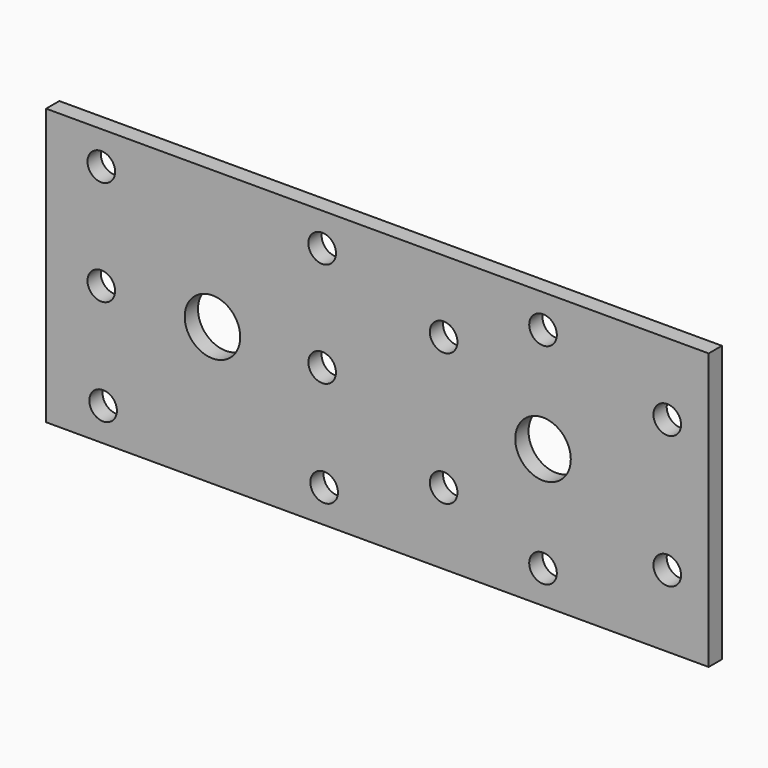
from build123d import *

# Parameters (mm, degrees)
F0_W     = 120
F0_H     = 50
F1_DEPTH = 3
F2_R     = 2.5
F2_R_2   = 5.0292
F3_DEPTH = 3.001


with BuildPart() as f1:
    # F0 (on Front) → F1 (new body)
    with BuildSketch(Plane.XZ):
        Rectangle(F0_W, F0_H)
    extrude(amount=F1_DEPTH)

    # F2 (on face) → F3 (cut, through all)
    with BuildSketch(Plane.XZ.offset(3)):
        with Locations((-50, 0)):
            Circle(F2_R)
        with Locations((-49.6740713716, -19.0056)):
            Circle(F2_R)
        with Locations((-29.8628, 0)):
            Circle(F2_R_2)
        with Locations((-10, 0)):
            Circle(F2_R)
        with Locations((-9.6392054111, -18.9992)):
            Circle(F2_R)
        with Locations((12, 12)):
            Circle(F2_R)
        with Locations((12, -12)):
            Circle(F2_R)
        with Locations((30, 0)):
            Circle(F2_R_2)
        with Locations((30, -18.9992)):
            Circle(F2_R)
        with Locations((52.5, 12)):
            Circle(F2_R)
        with Locations((52.5, -12)):
            Circle(F2_R)
        with BuildLine():
            ThreePointArc((-7.5, 19), (-10, 21.5), (-12.5, 19))
            Line((-12.5, 19), (-7.5, 19))
        make_face()
        with BuildLine():
            Line((-7.5, 19), (-12.5, 19))
            ThreePointArc((-12.5, 19), (-10, 16.5), (-7.5, 19))
        make_face()
        with BuildLine():
            ThreePointArc((32.5, 19), (30, 21.5), (27.5, 19))
            Line((27.5, 19), (32.5, 19))
        make_face()
        with BuildLine():
            Line((32.5, 19), (27.5, 19))
            ThreePointArc((27.5, 19), (30, 16.5), (32.5, 19))
        make_face()
        with Locations((-50, 19)):
            Circle(F2_R)
    extrude(amount=-F3_DEPTH, mode=Mode.SUBTRACT)


solid = f1.part
